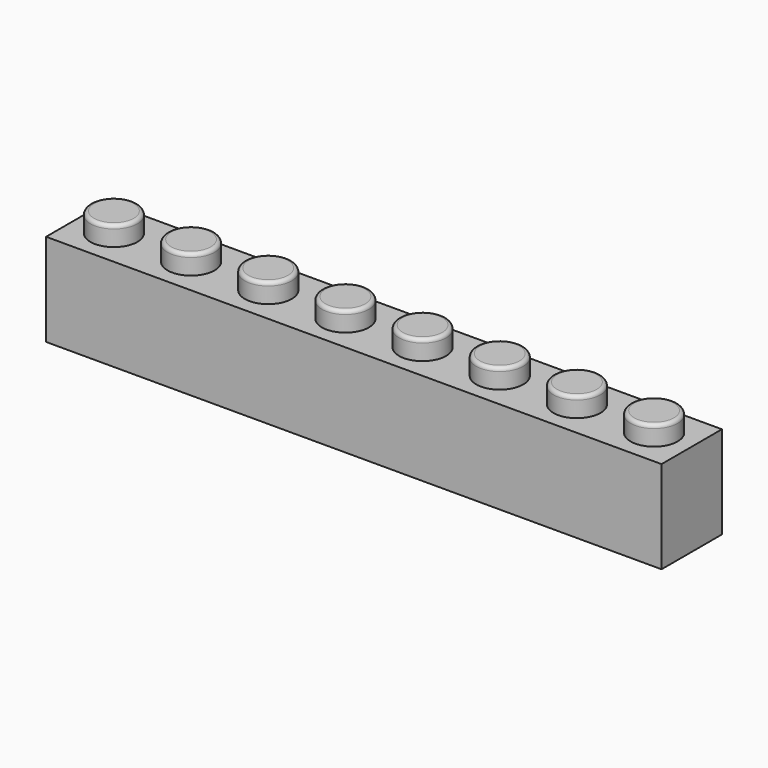
from build123d import *

# Parameters (mm, degrees)
F0_W      = 63.8
F0_H      = 7.8232
F1_DEPTH  = 9.6
F2_R      = 2.4384
F3_DEPTH  = 2.032
F4_W      = 61.0568
F4_H      = 5.08
F4_R      = 1.4605
F5_DEPTH  = 8
F6_R      = 0.381
F7_W      = 0.8
F7_H      = 5.08
F8_DEPTH  = 5.5616
F9_R      = 1.3
F10_DEPTH = 1.7


with BuildPart() as f1:
    # F0 (on Top) → F1 (new body)
    with BuildSketch(Plane.XY):
        with Locations((-2.336152, -15.277396)):
            Rectangle(F0_W, F0_H)
    extrude(amount=F1_DEPTH)

    # F2 (on face) → F3 (join)
    with BuildSketch(Plane.XY.offset(9.6)):
        with Locations((-30.336152, -15.277396)):
            Circle(F2_R)
        with Locations((-22.336152, -15.277396)):
            Circle(F2_R)
        with Locations((-14.336152, -15.277396)):
            Circle(F2_R)
        with Locations((-6.336152, -15.277396)):
            Circle(F2_R)
        with Locations((1.663848, -15.277396)):
            Circle(F2_R)
        with Locations((9.663848, -15.277396)):
            Circle(F2_R)
        with Locations((17.663848, -15.277396)):
            Circle(F2_R)
        with Locations((25.663848, -15.277396)):
            Circle(F2_R)
    extrude(amount=F3_DEPTH)

    # F4 (on face) → F5 (cut)
    with BuildSketch(Plane(origin=(0, 0, 0), x_dir=(1, 0, 0), z_dir=(0, 0, -1))):
        with Locations((-2.336152, 15.277396)):
            Rectangle(F4_W, F4_H)
        with Locations((-26.336152, 15.277396)):
            Circle(F4_R, mode=Mode.SUBTRACT)
        with Locations((-18.336152, 15.277396)):
            Circle(F4_R, mode=Mode.SUBTRACT)
        with Locations((-10.336152, 15.277396)):
            Circle(F4_R, mode=Mode.SUBTRACT)
        with Locations((-2.336152, 15.277396)):
            Circle(F4_R, mode=Mode.SUBTRACT)
        with Locations((5.663848, 15.277396)):
            Circle(F4_R, mode=Mode.SUBTRACT)
        with Locations((13.663848, 15.277396)):
            Circle(F4_R, mode=Mode.SUBTRACT)
        with Locations((21.663848, 15.277396)):
            Circle(F4_R, mode=Mode.SUBTRACT)
    extrude(amount=-F5_DEPTH, mode=Mode.SUBTRACT)

    # F6
    f6_edges = [f1.edges().sort_by_distance(p)[0] for p in [
        (-24.774552, -15.277396, 11.632),
        (-16.774552, -15.277396, 11.632),
        (-8.774552, -15.277396, 11.632),
        (-0.774552, -15.277396, 11.632),
        (7.225448, -15.277396, 11.632),
        (15.225448, -15.277396, 11.632),
        (23.225448, -15.277396, 11.632),
        (-32.774552, -15.277396, 11.632),
    ]]
    fillet(f6_edges, radius=F6_R)

    # F7 (on face) → F8 (join)
    with BuildSketch(Plane(origin=(0, 0, 8), x_dir=(1, 0, 0), z_dir=(0, 0, -1))):
        with Locations((-26.336152, 15.277396)):
            Rectangle(F7_W, F7_H)
        with Locations((-18.336152, 15.277396)):
            Rectangle(F7_W, F7_H)
        with Locations((-10.336152, 15.277396)):
            Rectangle(F7_W, F7_H)
        with Locations((-2.336152, 15.277396)):
            Rectangle(F7_W, F7_H)
        with Locations((5.663848, 15.277396)):
            Rectangle(F7_W, F7_H)
        with Locations((13.663848, 15.277396)):
            Rectangle(F7_W, F7_H)
        with Locations((21.663848, 15.277396)):
            Rectangle(F7_W, F7_H)
    extrude(amount=F8_DEPTH)

    # F9 (on face) → F10 (cut)
    with BuildSketch(Plane(origin=(0, 0, 8), x_dir=(1, 0, 0), z_dir=(0, 0, -1))):
        with Locations((-30.336152, 15.277396)):
            Circle(F9_R)
        with Locations((-22.336152, 15.277396)):
            Circle(F9_R)
        with Locations((-14.336152, 15.277396)):
            Circle(F9_R)
        with Locations((-6.336152, 15.277396)):
            Circle(F9_R)
        with Locations((1.663848, 15.277396)):
            Circle(F9_R)
        with Locations((9.663848, 15.277396)):
            Circle(F9_R)
        with Locations((17.663848, 15.277396)):
            Circle(F9_R)
        with Locations((25.663848, 15.277396)):
            Circle(F9_R)
    extrude(amount=-F10_DEPTH, mode=Mode.SUBTRACT)


solid = f1.part
